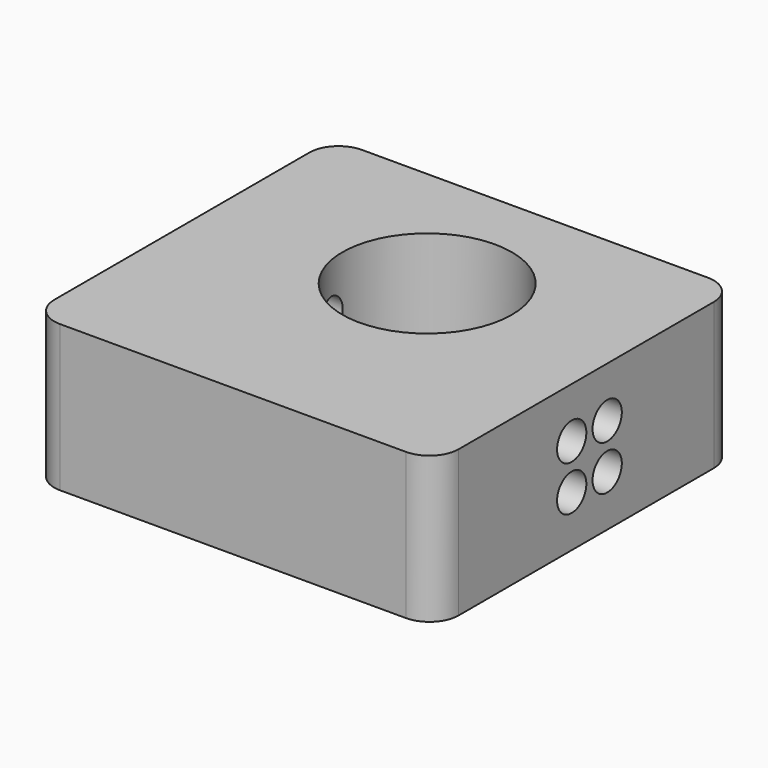
from build123d import *

# Parameters (mm, degrees)
F0_W     = 70.205692
F0_H     = 65.499166
F0_R     = 14.710247
F1_DEPTH = 25.4
F2_R     = 5.08
F3_R     = 5.08
F5_D     = 6.35


with BuildPart() as f1:
    # F0 (on Top) → F1 (new body)
    with BuildSketch(Plane.XY):
        with Locations((-1.372734, -7.648109)):
            Rectangle(F0_W, F0_H)
        Circle(F0_R, mode=Mode.SUBTRACT)
    extrude(amount=F1_DEPTH)

    # F2
    f2_edges = [f1.edges().sort_by_distance(p)[0] for p in [
        (-36.47558, 25.101474, 12.7),
    ]]
    fillet(f2_edges, radius=F2_R)

    # F3
    f3_edges = [f1.edges().sort_by_distance(p)[0] for p in [
        (33.730112, 25.101474, 12.7),
        (33.730112, -40.397692, 12.7),
        (-36.47558, -40.397692, 12.7),
    ]]
    fillet(f3_edges, radius=F3_R)

    # F5 (through all)
    with Locations(Plane.YZ.offset(33.730112)):
        with Locations((-3.10241, 16.666889), (-3.10241, 8.856437), (-10.79876, 8.856437), (-10.79876, 16.666889)):
            Hole(F5_D / 2)


solid = f1.part
